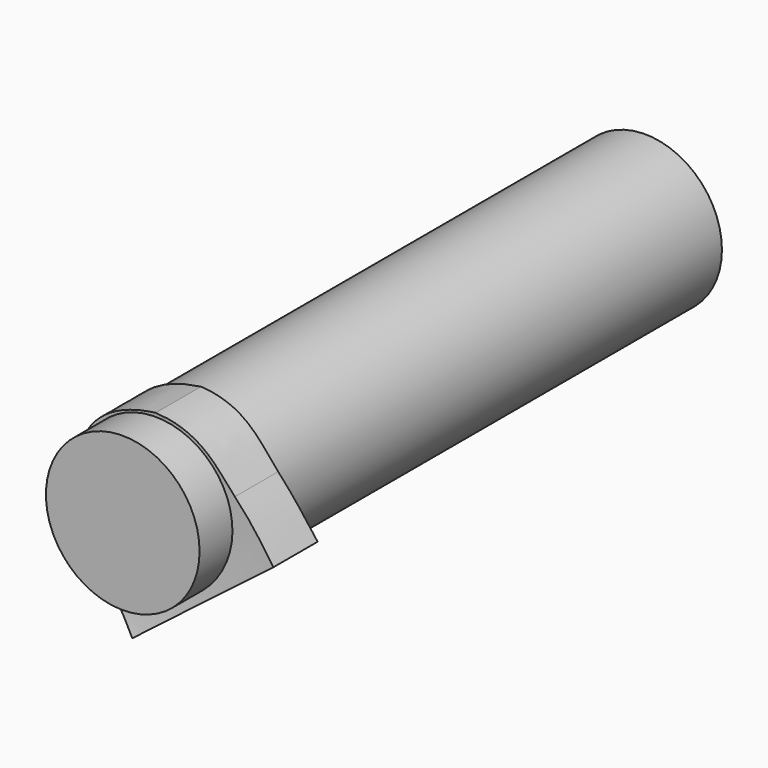
from build123d import *

# Parameters (mm, degrees)
CYLINDER_R             = 200
CYLINDER_DEPTH         = 1700
CYLINDER_ROLL_ANGLE    = 90
CYLINDER001_R          = 200
CYLINDER001_DEPTH      = 1700
CYLINDER001_ROLL_ANGLE = 90


with BuildPart() as cylinder:
    # Cylinder → Cylinder (new body)
    with BuildSketch(Plane.XY):
        Circle(CYLINDER_R)
    extrude(amount=CYLINDER_DEPTH)


with BuildPart() as cylinder_1:
    # Cylinder roll: moved
    add(cylinder.part.rotate(Axis((0, 0, 0), (1, 0, 0)), CYLINDER_ROLL_ANGLE))


with BuildPart() as cylinder_2:
    # Cylinder placement: moved
    add(cylinder_1.part.moved(Location((4700, 850, 0))))


with BuildPart() as sweep_body:
    # Sweep: sweep along a path in Sketch003
    with BuildLine(Plane.XZ.offset(730)) as sweep_path:
        Line((4426.077148, -121.399231), (5281.869141, -121.399231))
    # Sketch001 → Sweep (sweep)
    with BuildSketch(Plane.YZ.offset(4700)):
        with BuildLine():
            add(Edge.make_bspline(
                [(-497.182495, -630.036926), (-761.188354, -319.26123), (-810.149597, -386.833405)],
                knots=[0, 0, 0, 1, 1, 1], degree=2))
            add(Edge.make_bspline(
                [(-810.149597, -386.833405), (-728.284973, -278.866882), (-744.819824, 249.19017)],
                knots=[0, 0, 0, 1, 1, 1], degree=2))
            Line((-744.819824, 249.19017), (-593.692017, 249.19017))
            add(Edge.make_bspline(
                [(-497.182495, -630.036926), (-629.927063, -276.374481), (-593.692017, 249.19017)],
                knots=[0, 0, 0, 1, 1, 1], degree=2))
        make_face()
    sweep(path=sweep_path.line)


with BuildPart() as common:
    # Sweep001: sweep along a path in Sketch002
    with BuildLine(Plane.YZ.offset(4700)) as sweep001_path:
        Line((-1041.273682, -2.466114), (49.49353, -2.466114))
    # Sketch → Sweep001 (sweep)
    with BuildSketch(Plane.XZ):
        with BuildLine():
            add(Edge.make_bspline(
                [(4905.51709, 82.988777), (4862.152344, 127.798813), (4823.124512, 202.964127), (4700.76, 209.36)],
                knots=[0, 0, 0, 0, 1, 1, 1, 1], degree=3))
            add(Edge.make_bspline(
                [(4665.07666, -306.242706), (4522.186035, -125.033241), (4496.024902, -52.362926), (4474.708496, 30.965664), (4553.348145, 190.271194), (4700.76, 209.36)],
                knots=[0, 0, 0, 0, 0.333333, 0.666667, 1, 1, 1, 1], degree=3))
            Line((4665.07666, -306.242706), (5007.656738, -44.609661))
            add(Edge.make_bspline(
                [(4905.51709, 82.988777), (4950.327148, 36.733257), (5007.656738, -44.609661)],
                knots=[0, 0, 0, 1, 1, 1], degree=2))
        make_face()
    sweep(path=sweep001_path.line)

    # Common: intersect Sweep body
    add(sweep_body.part, mode=Mode.INTERSECT)


with BuildPart() as cylinder001:
    # Cylinder001 → Cylinder001 (new body)
    with BuildSketch(Plane.XY):
        Circle(CYLINDER001_R)
    extrude(amount=CYLINDER001_DEPTH)


with BuildPart() as cylinder001_1:
    # Cylinder001 roll: moved
    add(cylinder001.part.rotate(Axis((0, 0, 0), (1, 0, 0)), CYLINDER001_ROLL_ANGLE))


with BuildPart() as cylinder001_2:
    # Cylinder001 placement: moved
    add(cylinder001_1.part.moved(Location((4700, 850, 0))))


solid = Compound([cylinder_2.part, common.part, cylinder001_2.part])
